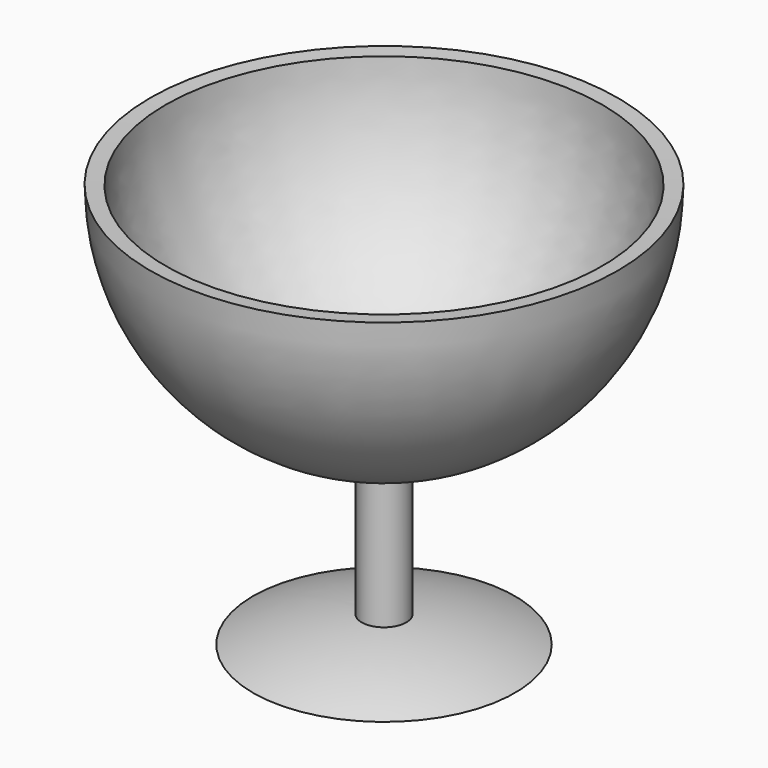
from build123d import *


with BuildPart() as f1:
    # F0 (on Front) → F1 (revolve)
    with BuildSketch(Plane.XZ):
        with BuildLine():
            Line((-41.242268, 76.344021), (-44.175051, 76.52732))
            ThreePointArc((-44.175051, 76.52732), (-32.645538, 46.866788), (-4.215877, 32.568844))
            Line((-4.215877, 32.568844), (-4.215877, 5.040722))
            ThreePointArc((-4.215877, 5.040722), (-14.687785, 3.364095), (-24.74536, 0))
            Line((-24.74536, 0), (0, 0))
            Line((0, 0), (0, 34.368556))
            ThreePointArc((0, 34.368556), (-28.884826, 47.236941), (-41.242268, 76.344021))
        make_face()
    revolve(axis=Axis((0, 0, 17.184278), (0, 0, -1)))


solid = f1.part
